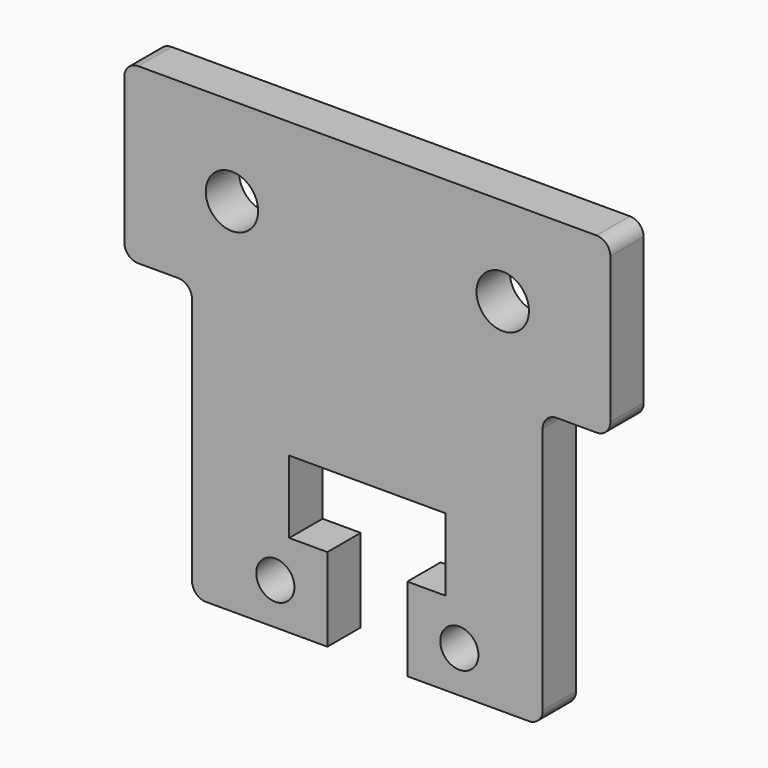
from build123d import *

# Parameters (mm, degrees)
F0_R     = 5.5
F0_R_2   = 7.55
F1_DEPTH = 12
F2_R     = 4


with BuildPart() as f1:
    # F0 (on Front) → F1 (new body)
    with BuildSketch(Plane.XZ):
        Polygon((0, -84.6), (0, 0), (-70, 0), (-70, -50), (-50.5, -50), (-50.5, -129.5), (-11.5, -129.5), (-11.5, -105.5), (-22.5, -105.5), (-22.5, -84.6), align=None)
        with Locations((-26.5, -117.5)):
            Circle(F0_R, mode=Mode.SUBTRACT)
        with Locations((-39, -25.5)):
            Circle(F0_R_2, mode=Mode.SUBTRACT)
    extrude(amount=F1_DEPTH)

    # F2
    f2_edges = [f1.edges().sort_by_distance(p)[0] for p in [
        (-50.5, -6, -129.5),
        (-50.5, -6, -50),
        (-70, -6, -50),
        (-70, -6, 0),
    ]]
    fillet(f2_edges, radius=F2_R)

    # F3: F1 across face


with BuildPart() as f1_1:
    add(f1.part)
    add(f1.part.mirror(Plane(origin=(0, -6, -42.3), x_dir=(0, 1, 0), z_dir=(1, 0, 0))))


solid = f1_1.part
